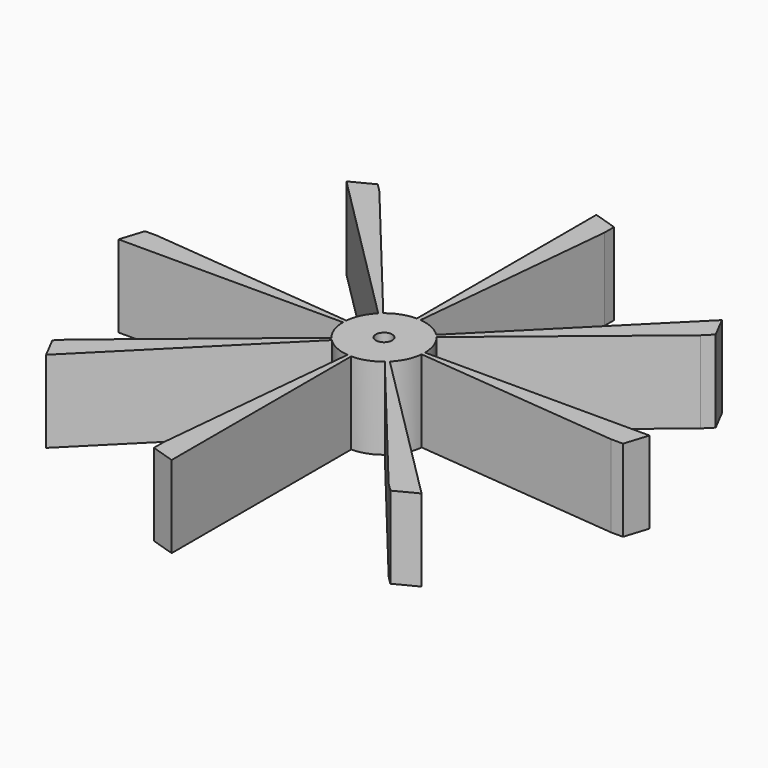
from build123d import *

# Parameters (mm, degrees)
F0_R     = 2.5
F0_R_2   = 0.5
F1_DEPTH = 5
F3_DEPTH = 5


with BuildPart() as f1:
    # F0 (on Top) → F1 (new body)
    with BuildSketch(Plane.XY):
        Circle(F0_R)
        Circle(F0_R_2, mode=Mode.SUBTRACT)
    extrude(amount=F1_DEPTH)

    # F2 (on Top) → F3 (join)
    with BuildSketch(Plane.XY):
        with BuildLine():
            ThreePointArc((-0.981539, 0.981539), (-0.933303, 1.027514), (-0.882916, 1.07112))
            Line((-0.882916, 1.07112), (-9.58502, 11.628184))
            Line((-9.58502, 11.628184), (-10.099932, 12.143096))
            Line((-10.099932, 12.143096), (-11.447009, 11.447009))
            Line((-11.447009, 11.447009), (-10.606602, 10.606602))
            Line((-10.606602, 10.606602), (-0.981539, 0.981539))
        make_face()
        with BuildLine():
            Line((0, 15), (0, 1.388106))
            ThreePointArc((0, 1.388106), (0.066617, 1.386507), (0.133081, 1.381712))
            Line((0.133081, 1.381712), (1.444735, 15))
            Line((1.444735, 15), (1.444735, 15.728196))
            Line((1.444735, 15.728196), (0, 16.188515))
            Line((0, 16.188515), (0, 15))
        make_face()
        with BuildLine():
            Line((10.606602, 10.606602), (0.981539, 0.981539))
            ThreePointArc((0.981539, 0.981539), (1.027514, 0.933303), (1.07112, 0.882916))
            Line((1.07112, 0.882916), (11.628184, 9.58502))
            Line((11.628184, 9.58502), (12.143096, 10.099932))
            Line((12.143096, 10.099932), (11.447009, 11.447009))
            Line((11.447009, 11.447009), (10.606602, 10.606602))
        make_face()
        with BuildLine():
            Line((15, 0), (1.388106, 0))
            ThreePointArc((1.388106, 0), (1.386507, -0.066617), (1.381712, -0.133081))
            Line((1.381712, -0.133081), (15, -1.444735))
            Line((15, -1.444735), (15.728196, -1.444735))
            Line((15.728196, -1.444735), (16.188515, 0))
            Line((16.188515, 0), (15, 0))
        make_face()
        with BuildLine():
            Line((10.606602, -10.606602), (0.981539, -0.981539))
            ThreePointArc((0.981539, -0.981539), (0.933303, -1.027514), (0.882916, -1.07112))
            Line((0.882916, -1.07112), (9.58502, -11.628184))
            Line((9.58502, -11.628184), (10.099932, -12.143096))
            Line((10.099932, -12.143096), (11.447009, -11.447009))
            Line((11.447009, -11.447009), (10.606602, -10.606602))
        make_face()
        with BuildLine():
            ThreePointArc((0, -1.388106), (-0.066617, -1.386507), (-0.133081, -1.381712))
            Line((-0.133081, -1.381712), (-1.444735, -15))
            Line((-1.444735, -15), (-1.444735, -15.728196))
            Line((-1.444735, -15.728196), (0, -16.188515))
            Line((0, -16.188515), (0, -15))
            Line((0, -15), (0, -1.388106))
        make_face()
        with BuildLine():
            ThreePointArc((-0.981539, -0.981539), (-1.027514, -0.933303), (-1.07112, -0.882916))
            Line((-1.07112, -0.882916), (-11.628184, -9.58502))
            Line((-11.628184, -9.58502), (-12.143096, -10.099932))
            Line((-12.143096, -10.099932), (-11.447009, -11.447009))
            Line((-11.447009, -11.447009), (-10.606602, -10.606602))
            Line((-10.606602, -10.606602), (-0.981539, -0.981539))
        make_face()
        with BuildLine():
            ThreePointArc((-1.388106, 0), (-1.386507, 0.066617), (-1.381712, 0.133081))
            Line((-1.381712, 0.133081), (-15, 1.444735))
            Line((-15, 1.444735), (-15.728196, 1.444735))
            Line((-15.728196, 1.444735), (-16.188515, 0))
            Line((-16.188515, 0), (-15, 0))
            Line((-15, 0), (-1.388106, 0))
        make_face()
    extrude(amount=F3_DEPTH)


solid = f1.part
